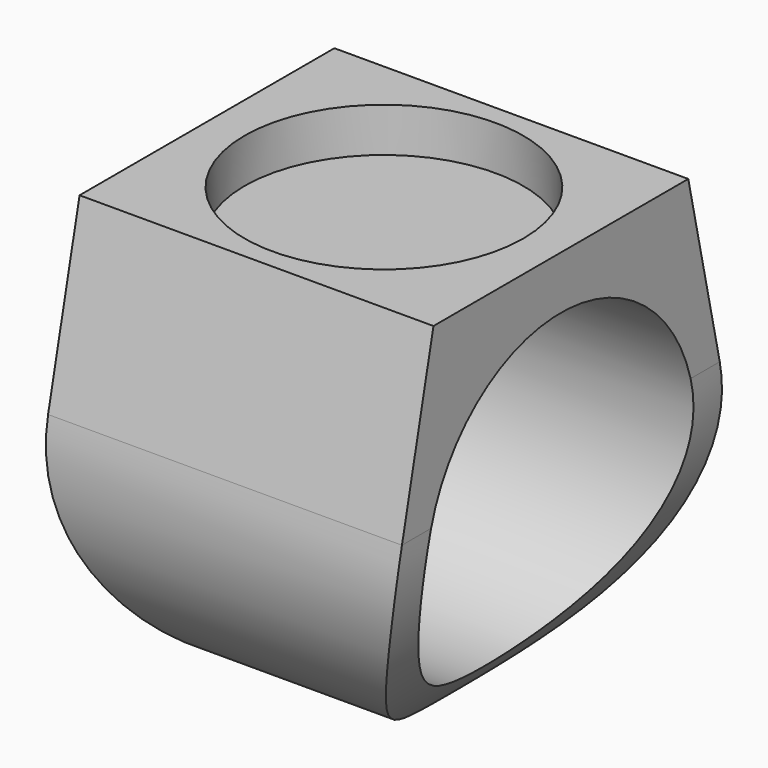
from build123d import *

# Parameters (mm, degrees)
F0_R     = 9.5
F1_DEPTH = 10
F3_DEPTH = 15
F4_R     = 7.875
F5_DEPTH = 2.5


with BuildPart() as f1:
    # F0 (on Right) → F1 (new body, symmetric)
    with BuildSketch(Plane.YZ):
        with BuildLine():
            ThreePointArc((-11.225497, 2.497642), (-1.256341, -11.431168), (11.5, 0))
            ThreePointArc((11.5, 0), (11.431168, 1.256341), (11.225497, 2.497642))
            ThreePointArc((11.225497, 2.497642), (0, 11.5), (-11.225497, 2.497642))
        make_face()
        Circle(F0_R, mode=Mode.SUBTRACT)
        with BuildLine():
            ThreePointArc((-11.225497, 2.497642), (0, 11.5), (11.225497, 2.497642))
            Line((11.225497, 2.497642), (9, 12.5))
            Line((9, 12.5), (-9, 12.5))
            Line((-9, 12.5), (-11.225497, 2.497642))
        make_face()
    extrude(amount=F1_DEPTH, both=True)

    # F2 (on Front) → F3 (cut, symmetric)
    with BuildSketch(Plane.XZ):
        with BuildLine():
            Line((10, 12.5), (10, 2.5))
            ThreePointArc((10, 2.5), (8.02051, -5.885255), (2.5, -12.5))
            Line((2.5, -12.5), (-2.5, -12.5))
            ThreePointArc((-2.5, -12.5), (-8.02051, -5.885255), (-10, 2.5))
            Line((-10, 2.5), (-10, 12.5))
            Line((-10, 12.5), (-15, 12.5))
            Line((-15, 12.5), (-15, -17.5))
            Line((-15, -17.5), (15, -17.5))
            Line((15, -17.5), (15, 12.5))
            Line((15, 12.5), (10, 12.5))
        make_face()
    extrude(amount=F3_DEPTH, both=True, mode=Mode.SUBTRACT)

    # F4 (on face) → F5 (cut)
    with BuildSketch(Plane.XY.offset(12.5)):
        Circle(F4_R)
    extrude(amount=-F5_DEPTH, mode=Mode.SUBTRACT)


solid = f1.part
